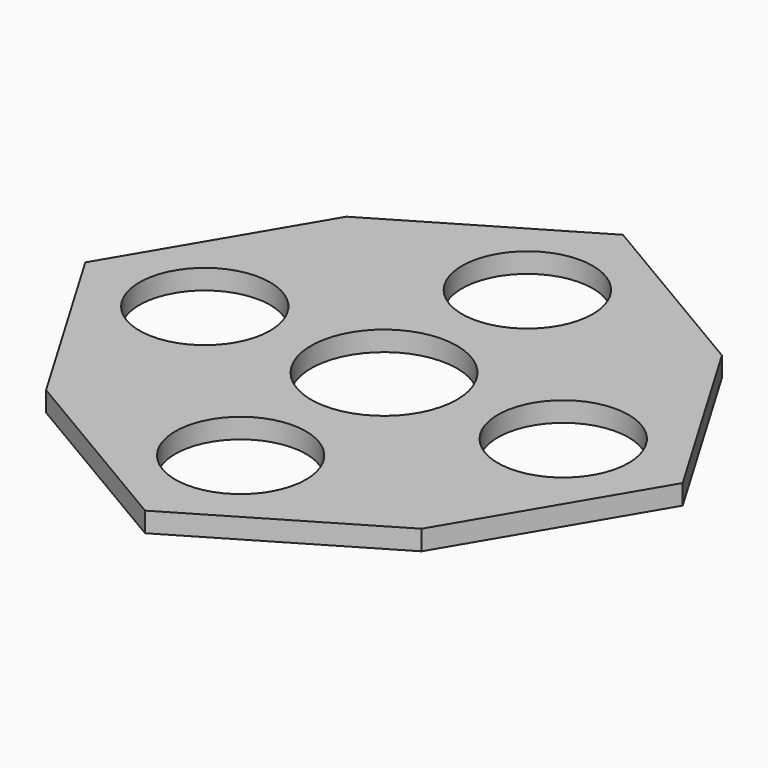
from build123d import *

# Parameters (mm, degrees)
F0_R     = 9.85
F0_R_2   = 11
F1_DEPTH = 3


with BuildPart() as f1:
    # F0 (on Top) → F1 (new body)
    with BuildSketch(Plane.XY):
        Polygon((-28.284271, 28.284271), (-45, 0), (-28.284271, -28.284271), (0, -45), (28.284271, -28.284271), (45, 0), (28.284271, 28.284271), (0, 45), align=None)
        with Locations((0, -27)):
            Circle(F0_R, mode=Mode.SUBTRACT)
        with Locations((-27, 0)):
            Circle(F0_R, mode=Mode.SUBTRACT)
        Circle(F0_R_2, mode=Mode.SUBTRACT)
        with Locations((27, 0)):
            Circle(F0_R, mode=Mode.SUBTRACT)
        with Locations((0, 27)):
            Circle(F0_R, mode=Mode.SUBTRACT)
    extrude(amount=F1_DEPTH)


solid = f1.part
